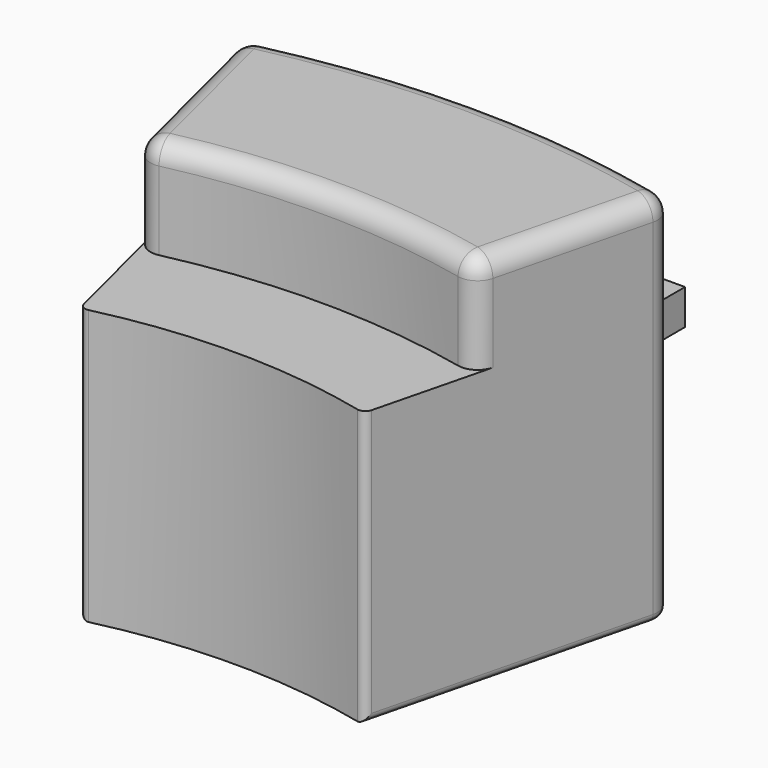
from build123d import *

# Parameters (mm, degrees)
PAD011_DEPTH      = 2
PAD011_DEPTH_BACK = 7.5
POCKET004_DEPTH   = 6.4
POCKET005_DEPTH   = 2.5
PAD013_DEPTH      = 0.45
PAD013_DEPTH_BACK = 0.45
FILLET023_R       = 0.5
FILLET025_R       = 0.2
FILLET024_R       = 0.2
FILLET020_R       = 0.5
SKETCH021_W       = 3
SKETCH021_H       = 1
PAD012_DEPTH      = 1
FILLET022_R       = 0.5
FILLET021_R       = 0.99


with BuildPart() as part:
    # Sketch019 (on DatumPlane) → Pad011 (new body, two sides)
    with BuildSketch(Plane.XY.offset(10)) as pad011_sk:
        with BuildLine():
            ThreePointArc((5.5, 1.920538), (0, 2.6), (-5.5, 1.920538))
            Line((-5.5, 1.920538), (-3.616372, -5.586761))
            ThreePointArc((3.616372, -5.586761), (0, -5.14), (-3.616372, -5.586761))
            Line((3.616372, -5.586761), (5.5, 1.920538))
        make_face()
    extrude(amount=PAD011_DEPTH)
    extrude(pad011_sk.sketch, amount=-PAD011_DEPTH_BACK)

    # Sketch017 (on Face5 of Pad011) → Pocket004 (cut)
    with BuildSketch(Plane(origin=(0, 0, 2.5), x_dir=(1, 0, 0), z_dir=(0, 0, -1))):
        with BuildLine():
            ThreePointArc((-4.515394, -1.283614), (0, -1.8), (4.515394, -1.283614))
            Line((3.020793, 4.673197), (4.515394, -1.283614))
            ThreePointArc((-3.020793, 4.673197), (0, 4.34), (3.020793, 4.673197))
            Line((-4.515394, -1.283614), (-3.020793, 4.673197))
        make_face()
    extrude(amount=-POCKET004_DEPTH, mode=Mode.SUBTRACT)

    # Sketch018 (on Face5 of Pocket004) → Pocket005 (cut)
    with BuildSketch(Plane.XY.offset(12)):
        with BuildLine():
            ThreePointArc((4.283186, -2.929138), (0, -2.4), (-4.283186, -2.929138))
            Line((-4.283186, -2.929138), (-3.616372, -5.586761))
            ThreePointArc((3.616372, -5.586761), (0, -5.14), (-3.616372, -5.586761))
            Line((4.283186, -2.929138), (3.616372, -5.586761))
        make_face()
    extrude(amount=-POCKET005_DEPTH, mode=Mode.SUBTRACT)

    # Sketch020 (on DatumPlane) → Pad013 (join, two sides)
    with BuildSketch(Plane.XY.offset(7.95)) as pad013_sk:
        Polygon((-3.9, 2.260952), (-3.9, 4.3), (-3, 4.3), (-2.1, 4.3), (-2.1, 2.502222), align=None)
        Polygon((2.1, 2.502222), (2.1, 4.3), (3, 4.3), (3.9, 4.3), (3.9, 2.260952), align=None)
    extrude(amount=PAD013_DEPTH)
    extrude(pad013_sk.sketch, amount=-PAD013_DEPTH_BACK)

    # Fillet023
    fillet023_edges = [part.edges().sort_by_distance(p)[0] for p in [
        (0, -2.4, 12),
        (4.891593, -0.5043, 12),
        (0, 2.6, 12),
        (-4.891593, -0.5043, 12),
        (4.283186, -2.929138, 10.75),
        (5.5, 1.920538, 7.25),
        (-5.5, 1.920538, 7.25),
        (-4.283186, -2.929138, 10.75),
    ]]
    fillet(fillet023_edges, radius=FILLET023_R)

    # Fillet025
    fillet025_edges = [part.edges().sort_by_distance(p)[0] for p in [
        (-3.616372, -5.586761, 6),
        (3.616372, -5.586761, 6),
        (-4.496657, -2.078339, 2.5),
        (4.496657, -2.078339, 2.5),
    ]]
    fillet(fillet025_edges, radius=FILLET025_R)

    # Fillet024
    fillet024_edges = [part.edges().sort_by_distance(p)[0] for p in [
        (0, -4.34, 8.9),
        (-3.768094, -1.694791, 8.9),
        (0, 1.8, 8.9),
        (3.768094, -1.694791, 8.9),
        (4.515394, 1.283614, 5.7),
        (3.020793, -4.673197, 5.7),
        (-3.020793, -4.673197, 5.7),
        (-4.515394, 1.283614, 5.7),
    ]]
    fillet(fillet024_edges, radius=FILLET024_R)

    # Fillet020
    fillet020_edges = [part.edges().sort_by_distance(p)[0] for p in [
        (-3.002424, 2.399675, 8.4),
        (-3.002424, 2.399675, 7.5),
        (3.002424, 2.399675, 7.5),
        (3.002424, 2.399675, 8.4),
    ]]
    fillet(fillet020_edges, radius=FILLET020_R)

    # Sketch021 (on Face21 of Fillet020) → Pad012 (join)
    with BuildSketch(Plane(origin=(0, 0, 2.5), x_dir=(1, 0, 0), z_dir=(0, 0, -1))):
        with Locations((0, 3.921408)):
            Rectangle(SKETCH021_W, SKETCH021_H)
    extrude(amount=-PAD012_DEPTH)

    # Fillet022
    fillet022_edges = [part.edges().sort_by_distance(p)[0] for p in [
        (0, -4.34, 3.5),
    ]]
    fillet(fillet022_edges, radius=FILLET022_R)

    # Fillet021
    fillet021_edges = [part.edges().sort_by_distance(p)[0] for p in [
        (0, -3.421408, 3.5),
    ]]
    fillet(fillet021_edges, radius=FILLET021_R)


solid = part.part
